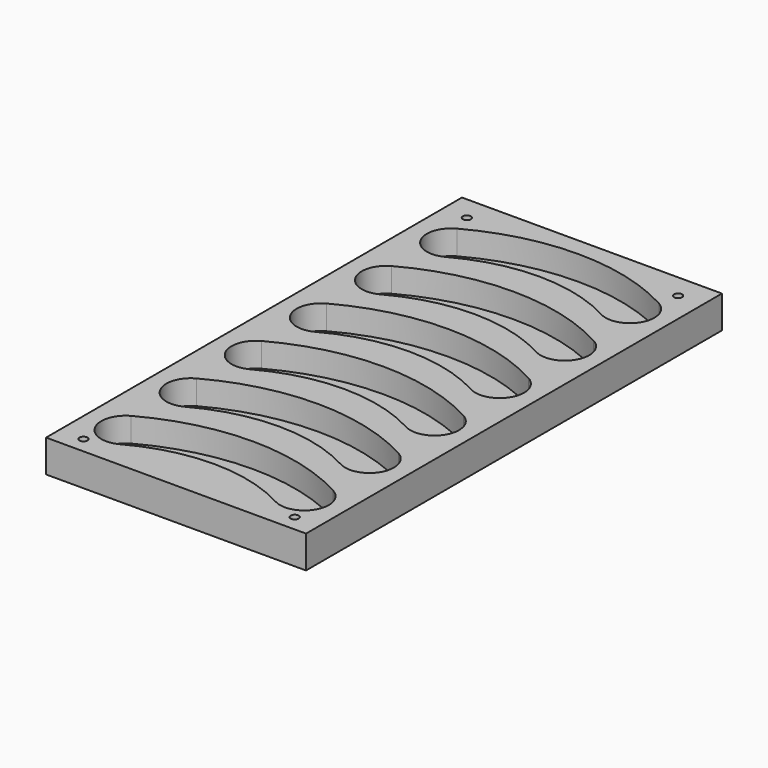
from build123d import *

# Parameters (mm, degrees)
F0_W     = 203.2
F0_H     = 406.4
F1_DEPTH = 25.4
F3_DEPTH = 19.05
F4_R     = 3.175
F5_DEPTH = 25.401


with BuildPart() as f1:
    # F0 (on Top) → F1 (new body)
    with BuildSketch(Plane.XY):
        with Locations((-101.6, 203.2)):
            Rectangle(F0_W, F0_H)
    extrude(amount=F1_DEPTH)

    # F2 (on face) → F3 (cut)
    with BuildSketch(Plane.XY.offset(25.4)):
        with BuildLine():
            ThreePointArc((-162.33913, 21.369951), (-101.6, 36.836287), (-40.86087, 21.369951))
            ThreePointArc((-40.86087, 21.369951), (-15.019951, 28.98913), (-22.63913, 54.830049))
            ThreePointArc((-22.63913, 54.830049), (-101.6, 74.936287), (-180.56087, 54.830049))
            ThreePointArc((-180.56087, 54.830049), (-188.180049, 28.98913), (-162.33913, 21.369951))
        make_face()
        with BuildLine():
            ThreePointArc((-162.233016, 84.869862), (-101.493885, 100.336199), (-40.754755, 84.869862))
            ThreePointArc((-40.754755, 84.869862), (-14.913836, 92.489042), (-22.533016, 118.329961))
            ThreePointArc((-22.533016, 118.329961), (-101.493885, 138.436199), (-180.454755, 118.329961))
            ThreePointArc((-180.454755, 118.329961), (-188.073935, 92.489042), (-162.233016, 84.869862))
        make_face()
        with BuildLine():
            ThreePointArc((-162.126901, 148.369773), (-101.387771, 163.83611), (-40.64864, 148.369773))
            ThreePointArc((-40.64864, 148.369773), (-14.807721, 155.988953), (-22.426901, 181.829872))
            ThreePointArc((-22.426901, 181.829872), (-101.387771, 201.93611), (-180.34864, 181.829872))
            ThreePointArc((-180.34864, 181.829872), (-187.96782, 155.988953), (-162.126901, 148.369773))
        make_face()
        with BuildLine():
            ThreePointArc((-162.020787, 211.869685), (-101.281656, 227.336021), (-40.542526, 211.869685))
            ThreePointArc((-40.542526, 211.869685), (-14.701607, 219.488864), (-22.320787, 245.329783))
            ThreePointArc((-22.320787, 245.329783), (-101.281656, 265.436021), (-180.242526, 245.329783))
            ThreePointArc((-180.242526, 245.329783), (-187.861706, 219.488864), (-162.020787, 211.869685))
        make_face()
        with BuildLine():
            ThreePointArc((-161.914672, 275.369596), (-101.175541, 290.835933), (-40.436411, 275.369596))
            ThreePointArc((-40.436411, 275.369596), (-14.595492, 282.988776), (-22.214672, 308.829695))
            ThreePointArc((-22.214672, 308.829695), (-101.175541, 328.935933), (-180.136411, 308.829695))
            ThreePointArc((-180.136411, 308.829695), (-187.755591, 282.988776), (-161.914672, 275.369596))
        make_face()
        with BuildLine():
            ThreePointArc((-161.808557, 338.869507), (-101.069427, 354.335844), (-40.330296, 338.869507))
            ThreePointArc((-40.330296, 338.869507), (-14.489377, 346.488687), (-22.108557, 372.329606))
            ThreePointArc((-22.108557, 372.329606), (-101.069427, 392.435844), (-180.030296, 372.329606))
            ThreePointArc((-180.030296, 372.329606), (-187.649476, 346.488687), (-161.808557, 338.869507))
        make_face()
    extrude(amount=-F3_DEPTH, mode=Mode.SUBTRACT)

    # F4 (on face) → F5 (cut, through all)
    with BuildSketch(Plane.XY.offset(25.4)):
        with Locations((-184.15, 387.35)):
            Circle(F4_R)
        with Locations((-19.05, 387.35)):
            Circle(F4_R)
        with Locations((-184.15, 12.7)):
            Circle(F4_R)
        with Locations((-19.05, 12.7)):
            Circle(F4_R)
    extrude(amount=-F5_DEPTH, mode=Mode.SUBTRACT)


solid = f1.part
